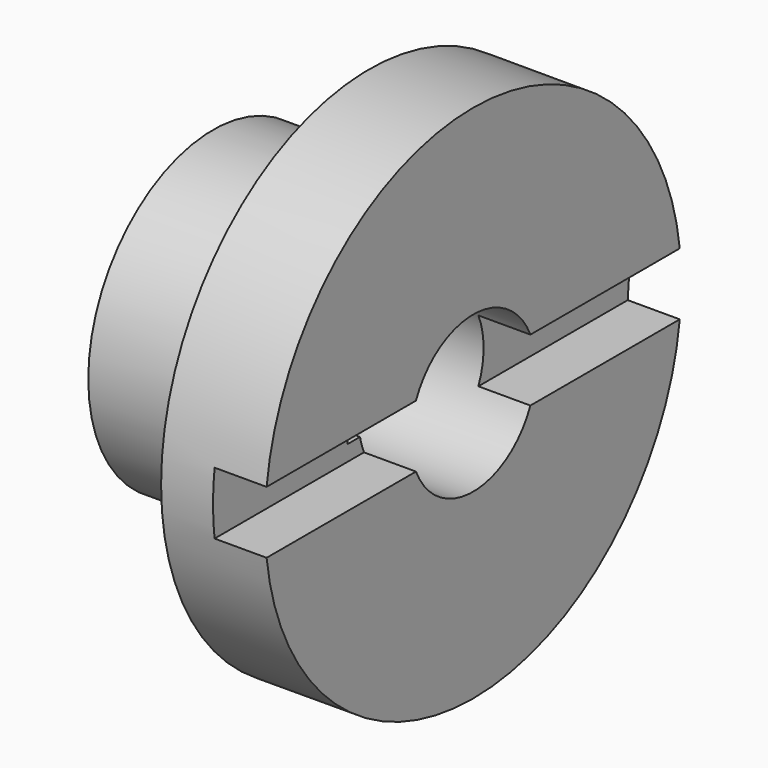
from build123d import *

# Parameters (mm, degrees)
F1_W          = 10
F1_H          = 6
F3_DEPTH      = 100
F3_DEPTH_BACK = 100
F5_DEPTH      = 100
F6_R          = 5


with BuildPart() as f2:
    # F0 (on Top) → F2 (revolve)
    with BuildSketch(Plane.XY):
        Polygon((0, -50), (0, -15), (-50, -15), (-50, -30), (-20, -30), (-20, -50), align=None)
    revolve(axis=Axis((-24.532024, 0, 0), (-1, 0, 0)))

    # F1 (on Front) → F3 (cut, two sides)
    with BuildSketch(Plane.XZ) as f3_sk:
        with Locations((-5, 3)):
            Rectangle(F1_W, F1_H)
        with Locations((-5, -3)):
            Rectangle(F1_W, F1_H)
    extrude(amount=F3_DEPTH, mode=Mode.SUBTRACT)
    extrude(f3_sk.sketch, amount=-F3_DEPTH_BACK, mode=Mode.SUBTRACT)

    # F4 (on Right) → F5 (cut)
    with BuildSketch(Plane.YZ):
        with BuildLine():
            ThreePointArc((-15, 0), (-14.924042, 1.507634), (-14.696938, 3))
            Line((-14.696938, 3), (-17.696938, 3))
            Line((-17.696938, 3), (-17.696938, 0))
            Line((-17.696938, 0), (-15, 0))
        make_face()
        with BuildLine():
            Line((-17.696938, -3), (-14.696938, -3))
            ThreePointArc((-14.696938, -3), (-14.924042, -1.507634), (-15, 0))
            Line((-15, 0), (-17.696938, 0))
            Line((-17.696938, 0), (-17.696938, -3))
        make_face()
    extrude(amount=-F5_DEPTH, mode=Mode.SUBTRACT)

    # F6
    f6_edges = [f2.edges().sort_by_distance(p)[0] for p in [
        (-20, 30, 0),
    ]]
    fillet(f6_edges, radius=F6_R)


solid = f2.part
